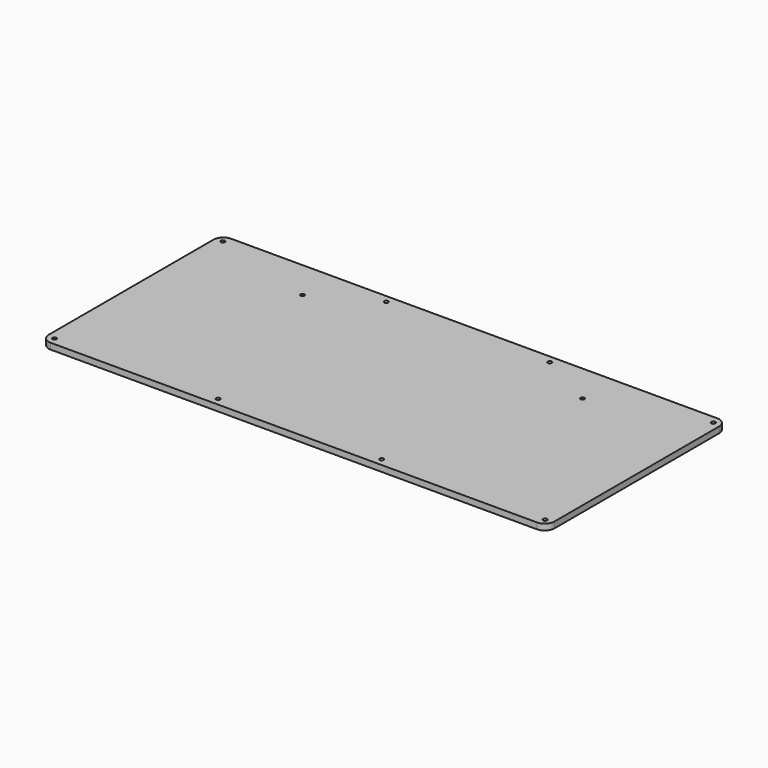
from build123d import *

# Parameters (mm, degrees)
SKETCH_W      = 263.525
SKETCH_H      = 117.475
PAD_DEPTH     = 3.175
SKETCH001_R   = 1.05
HOLE_DEPTH    = 3.176
SKETCH002_R   = 1.05029
HOLE001_DEPTH = 3.176
FILLET_R      = 5.08


with BuildPart() as part:
    # Sketch → Pad (new body)
    with BuildSketch(Plane.XY):
        Rectangle(SKETCH_W, SKETCH_H)
    extrude(amount=PAD_DEPTH)

    # Sketch001 (on Face6 of Pad) → Hole (cut, through all)
    with BuildSketch(Plane.XY.offset(3.175)):
        with Locations((-42.597917, 54.76875)):
            Circle(SKETCH001_R)
        with Locations((42.597917, 54.76875)):
            Circle(SKETCH001_R)
        with Locations((42.597917, -54.76875)):
            Circle(SKETCH001_R)
        with Locations((-42.597917, -54.76875)):
            Circle(SKETCH001_R)
        with Locations((-127.79375, -54.76875)):
            Circle(SKETCH001_R)
        with Locations((-127.79375, 54.76875)):
            Circle(SKETCH001_R)
        with Locations((127.79375, 54.76875)):
            Circle(SKETCH001_R)
        with Locations((127.79375, -54.76875)):
            Circle(SKETCH001_R)
    extrude(amount=-HOLE_DEPTH, mode=Mode.SUBTRACT)

    # Sketch002 (on Face5 of Hole) → Hole001 (cut, through all)
    with BuildSketch(Plane.XY.offset(3.175)):
        with Locations((-73.025, 38.1)):
            Circle(SKETCH002_R)
        with Locations((73.025, 38.1)):
            Circle(SKETCH002_R)
    extrude(amount=-HOLE001_DEPTH, mode=Mode.SUBTRACT)

    # Fillet
    fillet_edges = [part.edges().sort_by_distance(p)[0] for p in [
        (-131.7625, 58.7375, 1.5875),
        (-131.7625, -58.7375, 1.5875),
        (131.7625, 58.7375, 1.5875),
        (131.7625, -58.7375, 1.5875),
    ]]
    fillet(fillet_edges, radius=FILLET_R)


solid = part.part
